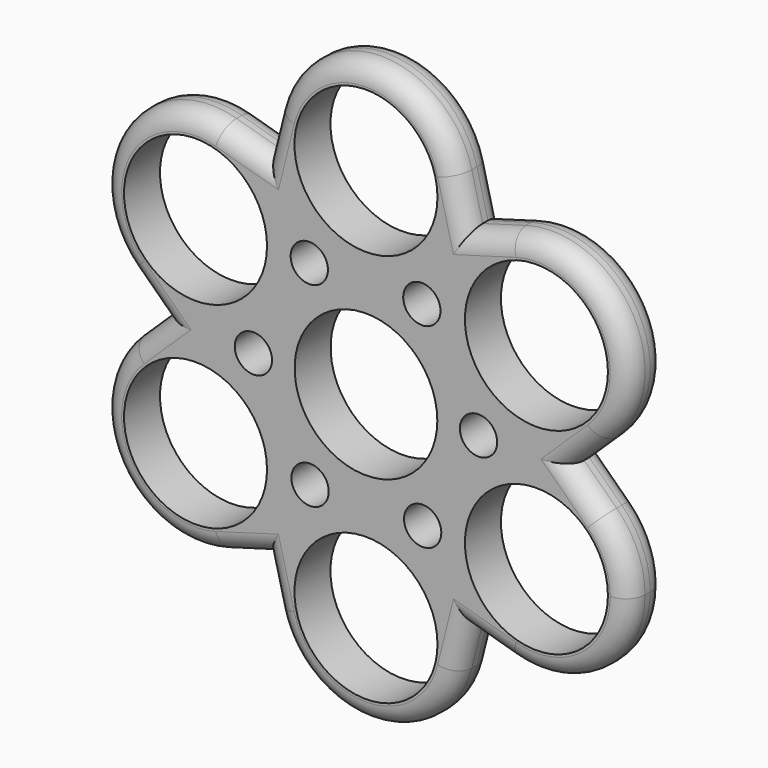
from build123d import *

# Parameters (mm, degrees)
F0_R     = 11.125
F0_R_2   = 2.9
F0_R_3   = 11.1
F1_DEPTH = 7
F2_R     = 3


with BuildPart() as f1:
    # F0 (on Front) → F1 (new body)
    with BuildSketch(Plane.XZ):
        with BuildLine():
            ThreePointArc((-14.067877, 34.138525), (-1.769998, 16.233439), (14.5, 30.625002))
            ThreePointArc((14.5, 30.625002), (14.391564, 32.395001), (14.067877, 34.138525))
            ThreePointArc((14.067877, 34.138525), (0, 45.125002), (-14.067877, 34.138525))
        make_face()
        with Locations((0, 30.625002)):
            Circle(F0_R, mode=Mode.SUBTRACT)
        with BuildLine():
            ThreePointArc((14.067877, 34.138525), (14.391564, 32.395001), (14.5, 30.625002))
            ThreePointArc((14.5, 30.625002), (-1.769998, 16.233439), (-14.067877, 34.138525))
            Line((-14.067877, 34.138525), (-15.771554, 27.317133))
            Line((-15.771554, 27.317133), (-22.530892, 29.252401))
            ThreePointArc((-22.530892, 29.252401), (-14.943569, 24.041146), (-12.02203, 15.312501))
            ThreePointArc((-12.02203, 15.312501), (-20.859112, 1.964042), (-36.598769, 4.886124))
            Line((-36.598769, 4.886124), (-31.543108, 0))
            Line((-31.543108, 0), (-36.598769, -4.886124))
            ThreePointArc((-36.598769, -4.886124), (-20.859112, -1.964042), (-12.02203, -15.312501))
            ThreePointArc((-12.02203, -15.312501), (-14.943569, -24.041146), (-22.530892, -29.252401))
            Line((-22.530892, -29.252401), (-15.771554, -27.317133))
            Line((-15.771554, -27.317133), (-14.067877, -34.138525))
            ThreePointArc((-14.067877, -34.138525), (0, -45.125002), (14.067877, -34.138525))
            Line((14.067877, -34.138525), (15.771554, -27.317133))
            Line((15.771554, -27.317133), (22.530892, -29.252401))
            ThreePointArc((22.530892, -29.252401), (13.964662, -8.062501), (36.598769, -4.886124))
            Line((36.598769, -4.886124), (31.543108, 0))
            Line((31.543108, 0), (36.598769, 4.886124))
            ThreePointArc((36.598769, 4.886124), (39.079398, 22.562501), (22.530892, 29.252401))
            Line((22.530892, 29.252401), (15.771554, 27.317133))
            Line((15.771554, 27.317133), (14.067877, 34.138525))
        make_face()
        with Locations((-8.694873, -15.206433)):
            Circle(F0_R_2, mode=Mode.SUBTRACT)
        with Locations((-17.516594, -0.073235)):
            Circle(F0_R_2, mode=Mode.SUBTRACT)
        with Locations((0, -30.625002)):
            Circle(F0_R, mode=Mode.SUBTRACT)
        with Locations((8.82172, -15.133197)):
            Circle(F0_R_2, mode=Mode.SUBTRACT)
        with BuildLine():
            ThreePointArc((-13.999674, -0.095592), (-0.047796, 13.999918), (14, 0))
            ThreePointArc((14, 0), (12.124356, -7), (7, -12.124356))
            ThreePointArc((7, -12.124356), (-6.958566, -12.148183), (-13.999674, -0.095592))
        make_face(mode=Mode.SUBTRACT)
        with Locations((-8.82172, 15.133197)):
            Circle(F0_R_2, mode=Mode.SUBTRACT)
        with Locations((17.516594, 0.073235)):
            Circle(F0_R_2, mode=Mode.SUBTRACT)
        with Locations((8.694873, 15.206433)):
            Circle(F0_R_2, mode=Mode.SUBTRACT)
        with Locations((26.52203, 15.312501)):
            Circle(F0_R, mode=Mode.SUBTRACT)
        with BuildLine():
            ThreePointArc((-12.02203, 15.312501), (-14.943569, 24.041146), (-22.530892, 29.252401))
            ThreePointArc((-22.530892, 29.252401), (-39.079398, 22.562501), (-36.598769, 4.886124))
            ThreePointArc((-36.598769, 4.886124), (-20.859112, 1.964042), (-12.02203, 15.312501))
        make_face()
        with Locations((-26.52203, 15.312501)):
            Circle(F0_R, mode=Mode.SUBTRACT)
        with BuildLine():
            ThreePointArc((41.02203, -15.312501), (39.870489, -9.649583), (36.598769, -4.886124))
            ThreePointArc((36.598769, -4.886124), (13.964662, -8.062501), (22.530892, -29.252401))
            ThreePointArc((22.530892, -29.252401), (35.250675, -26.890962), (41.02203, -15.312501))
        make_face()
        with Locations((26.52203, -15.312501)):
            Circle(F0_R, mode=Mode.SUBTRACT)
        with BuildLine():
            ThreePointArc((-12.02203, -15.312501), (-20.859112, -1.964042), (-36.598769, -4.886124))
            ThreePointArc((-36.598769, -4.886124), (-39.079398, -22.562501), (-22.530892, -29.252401))
            ThreePointArc((-22.530892, -29.252401), (-14.943569, -24.041146), (-12.02203, -15.312501))
        make_face()
        with Locations((-26.52203, -15.312501)):
            Circle(F0_R, mode=Mode.SUBTRACT)
        with BuildLine():
            ThreePointArc((7, -12.124356), (12.124356, -7), (14, 0))
            ThreePointArc((14, 0), (-0.047796, 13.999918), (-13.999674, -0.095592))
            ThreePointArc((-13.999674, -0.095592), (-6.958566, -12.148183), (7, -12.124356))
        make_face()
        Circle(F0_R_3, mode=Mode.SUBTRACT)
    extrude(amount=F1_DEPTH)

    # F2
    f2_edges = [f1.edges().sort_by_distance(p)[0] for p in [
        (-39.079398, -7, -22.562501),
        (-39.079398, -7, 22.562501),
        (0, -7, -45.125002),
        (39.079398, -7, -22.562501),
        (39.079398, -7, 22.562501),
        (0, -7, 45.125002),
        (0, 0, -45.125002),
        (39.079398, 0, -22.562501),
        (-39.079398, 0, 22.562501),
        (0, 0, 45.125002),
        (-39.079398, 0, -22.562501),
        (39.079398, 0, 22.562501),
    ]]
    fillet(f2_edges, radius=F2_R)


solid = f1.part
